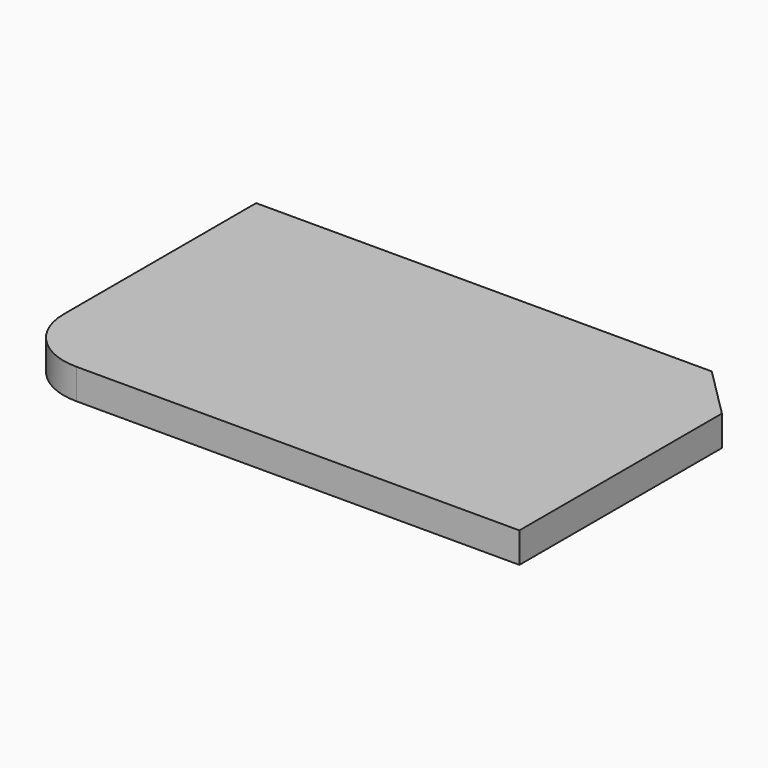
from build123d import *

# Parameters (mm, degrees)
F0_W     = 200
F0_H     = 120
F1_DEPTH = 12
F2_R     = 25
F3_SIZE  = 20


with BuildPart() as f1:
    # F0 (on Top) → F1 (new body)
    with BuildSketch(Plane.XY):
        with Locations((-100, 60)):
            Rectangle(F0_W, F0_H)
    extrude(amount=F1_DEPTH)

    # F2
    f2_edges = [f1.edges().sort_by_distance(p)[0] for p in [
        (-200, 0, 6),
    ]]
    fillet(f2_edges, radius=F2_R)

    # F3
    f3_edges = [f1.edges().sort_by_distance(p)[0] for p in [
        (0, 120, 6),
    ]]
    chamfer(f3_edges, length=F3_SIZE)


solid = f1.part
